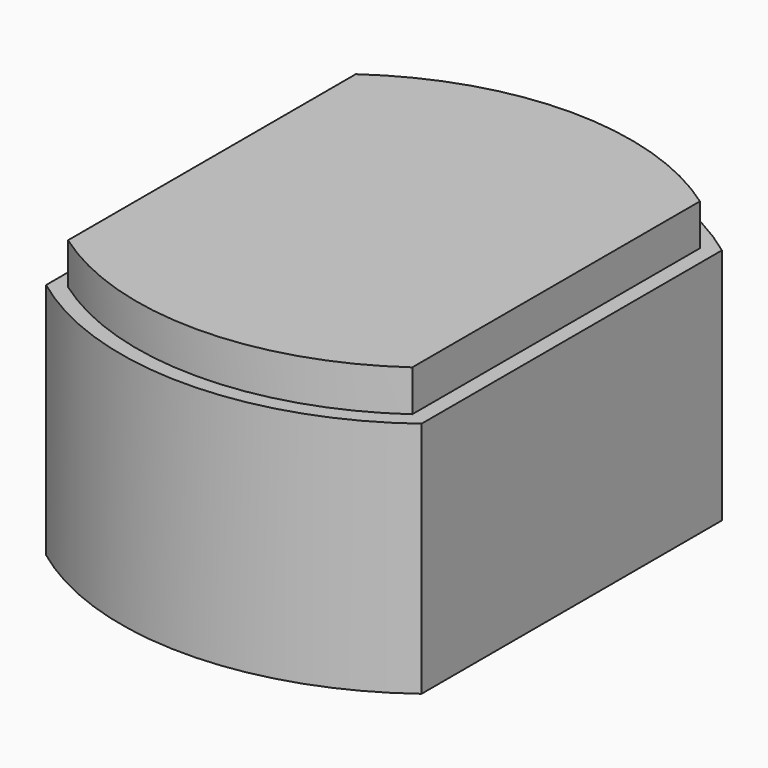
from build123d import *

# Parameters (mm, degrees)
F1_DEPTH = 48.26
F3_DEPTH = 8.382


with BuildPart() as f1:
    # F0 (on Top) → F1 (new body)
    with BuildSketch(Plane.XY):
        with BuildLine():
            ThreePointArc((-38.1, -38.1), (0, -50.8), (38.1, -38.1))
            Line((38.1, -38.1), (38.1, 38.1))
            ThreePointArc((38.1, 38.1), (0, 50.8), (-38.1, 38.1))
            Line((-38.1, 38.1), (-38.1, -38.1))
        make_face()
    extrude(amount=-F1_DEPTH)

    # F2 (on face) → F3 (join)
    with BuildSketch(Plane.XY):
        with BuildLine():
            Line((-34.925, 36.486888), (-34.925, -36.486888))
            ThreePointArc((-34.925, -36.486888), (0, -47.625), (34.925, -36.486888))
            Line((34.925, -36.486888), (34.925, 36.486888))
            ThreePointArc((34.925, 36.486888), (0, 47.625), (-34.925, 36.486888))
        make_face()
    extrude(amount=F3_DEPTH)


solid = f1.part
